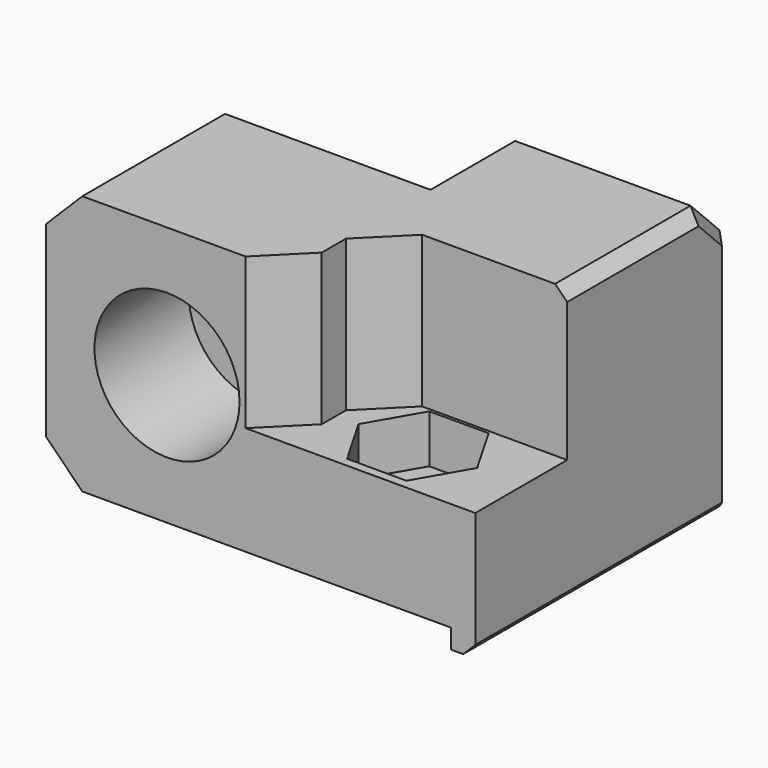
from build123d import *

# Parameters (mm, degrees)
SKETCH_W        = 13.5
SKETCH_H        = 26.5
SKETCH_R        = 2.65
PAD_DEPTH       = 5
PAD001_DEPTH    = 4
SKETCH002_W     = 13.5
SKETCH002_H     = 17
PAD002_DEPTH    = 16.5
SKETCH003_W     = 20
SKETCH003_H     = 21.5
SKETCH003_R     = 2.65
PAD003_DEPTH    = 14.75
SKETCH004_R     = 6
POCKET_DEPTH    = 9.75
PAD004_DEPTH    = 2
CHAMFER_SIZE    = 3
CHAMFER001_SIZE = 3.5
CHAMFER002_SIZE = 1


with BuildPart() as part:
    # Sketch → Pad (new body)
    with BuildSketch(Plane.XY):
        with Locations((6.75, 13.25)):
            Rectangle(SKETCH_W, SKETCH_H)
        with Locations((6.75, 5)):
            Circle(SKETCH_R, mode=Mode.SUBTRACT)
    extrude(amount=-PAD_DEPTH)

    # Sketch001 → Pad001 (join)
    with BuildSketch(Plane.XY):
        Polygon((0, 0), (4.729274, 0), (8.770726, 0), (13.5, 0), (13.5, 26.5), (0, 26.5), align=None)
        Polygon((9.203739, 0.75), (11.657477, 5), (9.203739, 9.25), (4.296261, 9.25), (1.842523, 5), (4.296261, 0.75), align=None, mode=Mode.SUBTRACT)
    extrude(amount=PAD001_DEPTH)

    # Sketch002 → Pad002 (join)
    with BuildSketch(Plane.XY):
        with Locations((6.75, 18)):
            Rectangle(SKETCH002_W, SKETCH002_H)
    extrude(amount=PAD002_DEPTH)

    # Sketch003 (on DatumPlane) → Pad003 (join)
    with BuildSketch(Plane.XZ.offset(-14.75)):
        with Locations((-10, 5.75)):
            Rectangle(SKETCH003_W, SKETCH003_H)
        with Locations((-10, 5.75)):
            Circle(SKETCH003_R, mode=Mode.SUBTRACT)
    extrude(amount=PAD003_DEPTH)

    # Sketch004 → Pocket (cut)
    with BuildSketch(Plane.XZ):
        with Locations((-10, 5.75)):
            Circle(SKETCH004_R)
    extrude(amount=-POCKET_DEPTH, mode=Mode.SUBTRACT)

    # Sketch005 (on DatumPlane) → Pad004 (join)
    with BuildSketch(Plane.YZ.offset(13.5)):
        Polygon((0, 0), (0, -6.6), (26.5, -6.6), (26.5, 16.5), (9.5, 16.5), (9.5, 4), (0, 4), align=None)
    extrude(amount=PAD004_DEPTH)

    # Chamfer
    chamfer_edges = [part.edges().sort_by_distance(p)[0] for p in [
        (6.75, 26.5, 16.5),
        (14.5, 26.5, 16.5),
        (-20, 7.375, -5),
        (-20, 7.375, 16.5),
    ]]
    chamfer(chamfer_edges, length=CHAMFER_SIZE)

    # Chamfer001
    chamfer001_edges = [part.edges().sort_by_distance(p)[0] for p in [
        (0, 9.5, 10.25),
        (0, 0, 10.25),
    ]]
    chamfer(chamfer001_edges, length=CHAMFER001_SIZE)

    # Chamfer002
    chamfer002_edges = [part.edges().sort_by_distance(p)[0] for p in [
        (15.5, 16.5, 16.5),
        (15.5, 13.25, -6.6),
        (15.5, 25, 15),
        (15.5, 26.5, 3.45),
    ]]
    chamfer(chamfer002_edges, length=CHAMFER002_SIZE)


solid = part.part
